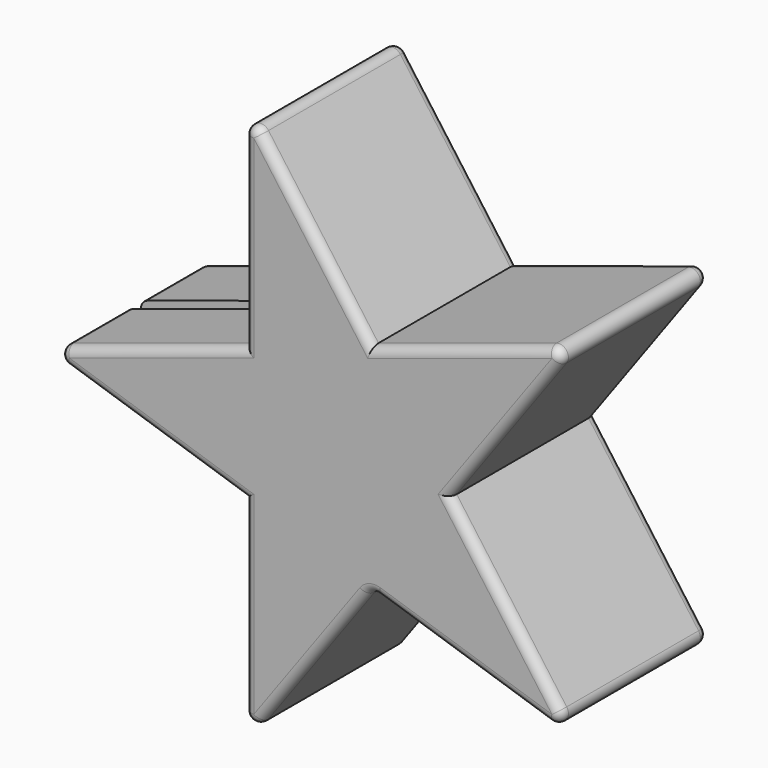
from build123d import *

# Parameters (mm, degrees)
F1_DEPTH = 20
F2_W     = 20
F2_H     = 2
F3_DEPTH = 12.5
F4_R     = 1


with BuildPart() as f1:
    # F0 (on Front) → F1 (new body)
    with BuildSketch(Plane.XZ):
        Polygon((-10, -7.265425), (-10, -30.776835), (3.81966, -11.755705), (26.18034, -19.02113), (12.36068, 0), (26.18034, 19.02113), (3.81966, 11.755705), (-10, 30.776835), (-10, 7.265425), (-32.36068, 0), align=None)
    extrude(amount=F1_DEPTH)

    # F2 (on Top) → F3 (cut, symmetric)
    with BuildSketch(Plane.XY):
        with Locations((-22.36068, -10)):
            Rectangle(F2_W, F2_H)
    extrude(amount=F3_DEPTH, both=True, mode=Mode.SUBTRACT)

    # F4
    f4_edges = [f1.edges().sort_by_distance(p)[0] for p in [
        (-21.18034, 0, -3.632713),
        (-21.18034, 0, 3.632713),
        (-10, 0, 19.02113),
        (-3.09017, 0, 21.26627),
        (15, 0, 15.388418),
        (19.27051, 0, 9.510565),
        (19.27051, 0, -9.510565),
        (15, 0, -15.388418),
        (-3.09017, 0, -21.26627),
        (-10, 0, -19.02113),
        (-21.18034, -20, 3.632713),
        (-21.18034, -20, -3.632713),
        (-10, -20, -19.02113),
        (-3.09017, -20, -21.26627),
        (15, -20, -15.388418),
        (19.27051, -20, -9.510565),
        (19.27051, -20, 9.510565),
        (15, -20, 15.388418),
        (-3.09017, -20, 21.26627),
        (-10, -20, 19.02113),
        (-10, -10, -30.776835),
        (3.81966, -10, -11.755705),
        (-32.36068, -15.5, 0),
        (-32.36068, -4.5, 0),
        (-10, -10, 30.776835),
        (26.18034, -10, 19.02113),
        (26.18034, -10, -19.02113),
    ]]
    fillet(f4_edges, radius=F4_R)


solid = f1.part
